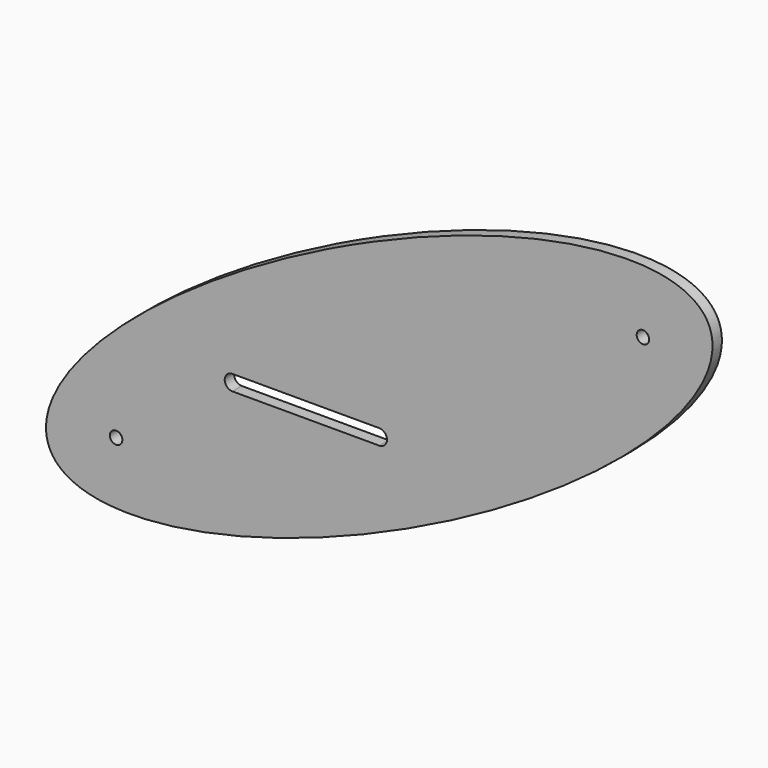
from build123d import *

# Parameters (mm, degrees)
F0_R     = 1.7
F1_DEPTH = 3.2


with BuildPart() as f1:
    # F0 (on Front) → F1 (new body)
    with BuildSketch(Plane.XZ):
        with BuildLine():
            Line((14.0397642828, -28.4659459597), (-14.0397642828, 28.4659459597))
            add(Edge.make_bspline(
                [(-14.0397642828, 28.4659459597), (-103.7246472001, -15.7677716786), (-89.6848829173, -44.2337176383), (-75.6451186345, -72.699663598), (14.0397642828, -28.4659459597)],
                knots=[1.5707963268, 1.5707963268, 1.5707963268, 3.1415926536, 3.1415926536, 4.7123889804, 4.7123889804, 4.7123889804], degree=2, weights=[1, 0.7071067812, 1, 0.7071067812, 1]))
        make_face()
        with Locations((-71.6789351269, -35.5268148237)):
            Circle(F0_R, mode=Mode.SUBTRACT)
        with BuildLine():
            ThreePointArc((-40, -14.1262044816), (-42.1, -12.0262044816), (-40, -9.9262044816))
            Line((-40, -9.9262044816), (0, -9.9262044816))
            ThreePointArc((0, -9.9262044816), (1.4849242405, -10.5412802411), (2.1, -12.0262044816))
            ThreePointArc((2.1, -12.0262044816), (1.4849242405, -13.5111287221), (0, -14.1262044816))
            Line((0, -14.1262044816), (-40, -14.1262044816))
        make_face(mode=Mode.SUBTRACT)
        with BuildLine():
            add(Edge.make_bspline(
                [(14.0397642828, -28.4659459597), (103.7246472001, 15.7677716786), (89.6848829173, 44.2337176383)],
                knots=[4.7123889804, 4.7123889804, 4.7123889804, 6.2831853072, 6.2831853072, 6.2831853072], degree=2, weights=[1, 0.7071067812, 1]))
            add(Edge.make_bspline(
                [(89.6848829173, 44.2337176383), (75.6451186345, 72.699663598), (-14.0397642828, 28.4659459597)],
                knots=[0, 0, 0, 1.5707963268, 1.5707963268, 1.5707963268], degree=2, weights=[1, 0.7071067812, 1]))
            Line((-14.0397642828, 28.4659459597), (14.0397642828, -28.4659459597))
        make_face()
        with Locations((71.8168775408, 35.2471333975)):
            Circle(F0_R, mode=Mode.SUBTRACT)
        with BuildLine():
            Line((14.0397642828, -28.4659459597), (-14.0397642828, 28.4659459597))
            add(Edge.make_bspline(
                [(-14.0397642828, 28.4659459597), (-103.7246472001, -15.7677716786), (-89.6848829173, -44.2337176383), (-75.6451186345, -72.699663598), (14.0397642828, -28.4659459597)],
                knots=[1.5707963268, 1.5707963268, 1.5707963268, 3.1415926536, 3.1415926536, 4.7123889804, 4.7123889804, 4.7123889804], degree=2, weights=[1, 0.7071067812, 1, 0.7071067812, 1]))
        make_face()
        with Locations((-71.6789351269, -35.5268148237)):
            Circle(F0_R, mode=Mode.SUBTRACT)
        with BuildLine():
            ThreePointArc((-40, -14.1262044816), (-42.1, -12.0262044816), (-40, -9.9262044816))
            Line((-40, -9.9262044816), (0, -9.9262044816))
            ThreePointArc((0, -9.9262044816), (1.4849242405, -10.5412802411), (2.1, -12.0262044816))
            ThreePointArc((2.1, -12.0262044816), (1.4849242405, -13.5111287221), (0, -14.1262044816))
            Line((0, -14.1262044816), (-40, -14.1262044816))
        make_face(mode=Mode.SUBTRACT)
    extrude(amount=F1_DEPTH)


with BuildPart() as f2_1:
    # F2: copy of F1
    add(f1.part)


solid = Compound([f1.part, f2_1.part])
